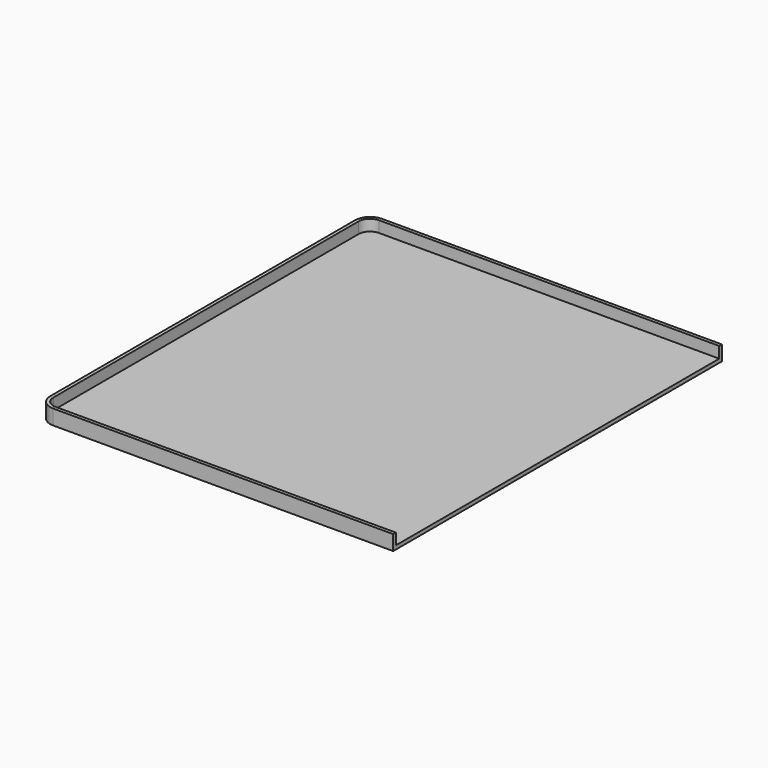
from build123d import *

# Parameters (mm, degrees)
PAD_DEPTH    = 1
PAD001_DEPTH = 3


with BuildPart() as part:
    # Sketch → Pad (new body)
    with BuildSketch(Plane.XY):
        with BuildLine():
            Line((4, 0), (95, 0))
            Line((95, 110), (95, 0))
            Line((95, 110), (4, 110))
            ThreePointArc((4, 110), (1.171573, 108.828427), (0, 106))
            Line((0, 106), (0, 4))
            ThreePointArc((0, 4), (1.171573, 1.171573), (4, 0))
        make_face()
    extrude(amount=PAD_DEPTH)

    # Sketch001 → Pad001 (new body)
    with BuildSketch(Plane.XY.offset(1)):
        with BuildLine():
            Line((4, 0), (95, 0))
            Line((95, 0), (95, 0.9))
            Line((95, 0.9), (3.9, 0.9))
            ThreePointArc((0.9, 3.9), (1.77868, 1.77868), (3.9, 0.9))
            Line((0.9, 3.9), (0.9, 106.1))
            ThreePointArc((3.9, 109.1), (1.77868, 108.22132), (0.9, 106.1))
            Line((3.9, 109.1), (95, 109.1))
            Line((95, 109.1), (95, 110))
            Line((95, 110), (4, 110))
            ThreePointArc((4, 110), (1.171573, 108.828427), (0, 106))
            Line((0, 106), (0, 4))
            ThreePointArc((0, 4), (1.171573, 1.171573), (4, 0))
        make_face()
    extrude(amount=PAD001_DEPTH)


solid = part.part
